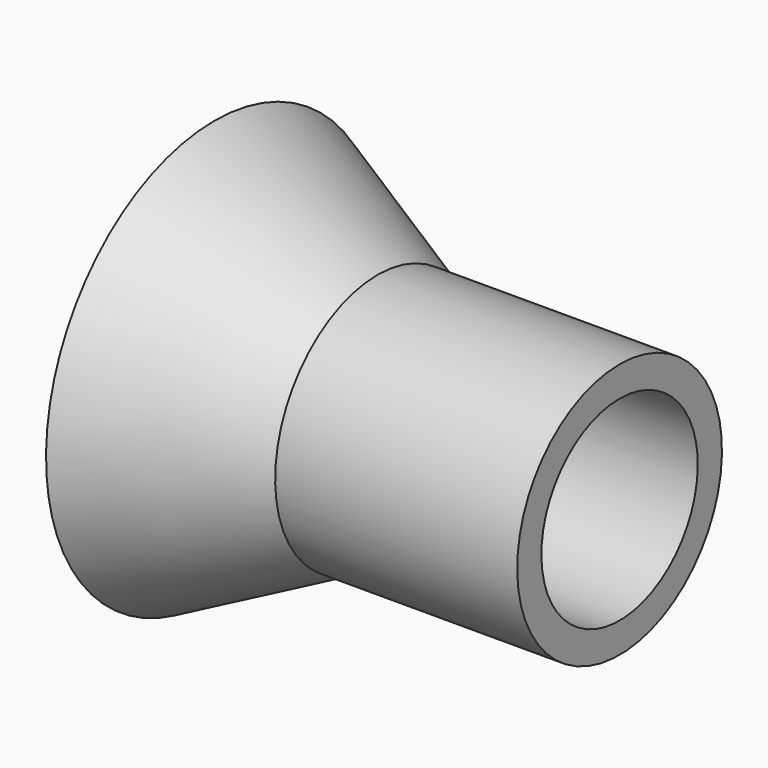
from build123d import *


with BuildPart() as f1:
    # F0 (on Front) → F1 (revolve)
    with BuildSketch(Plane.XZ):
        with BuildLine():
            Line((2.966696, 16.15), (40, 16.15))
            Line((40, 16.15), (40, 21.15))
            Line((40, 21.15), (0, 21.15))
            Line((0, 21.15), (-26.931133, 34.817208))
            ThreePointArc((-26.931133, 34.817208), (-25.480997, 29.983314), (-21.752545, 26.582128))
            Line((-21.752545, 26.582128), (-4.108907, 17.628206))
            ThreePointArc((-4.108907, 17.628206), (-1.729576, 15.904829), (0, 13.53))
            Line((0, 13.53), (0, 16.15))
            Line((0, 16.15), (2.966696, 16.15))
        make_face()
        with BuildLine():
            ThreePointArc((0, 13.53), (1.161582, 15.204344), (2.966696, 16.15))
            Line((2.966696, 16.15), (0, 16.15))
            Line((0, 16.15), (0, 13.53))
        make_face()
    revolve(axis=Axis((-26.957203, 0, 0), (-1, 0, 0)))


solid = f1.part
